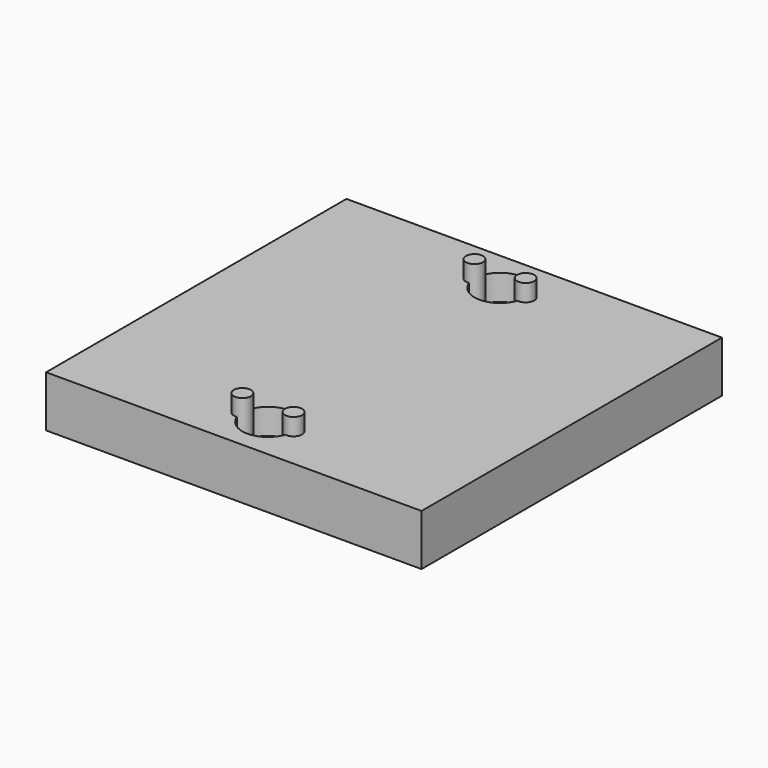
from build123d import *

# Parameters (mm, degrees)
CYLINDER_R        = 3
CYLINDER_DEPTH    = 10
CYLINDER001_R     = 3
CYLINDER001_DEPTH = 10
BOX_W             = 44
BOX_H             = 44
BOX_DEPTH         = 6
CYLINDER002_R     = 1
CYLINDER002_DEPTH = 10
CYLINDER003_R     = 1
CYLINDER003_DEPTH = 10
CYLINDER004_R     = 1
CYLINDER004_DEPTH = 10
CYLINDER005_R     = 1
CYLINDER005_DEPTH = 10


with BuildPart() as cylinder:
    # Cylinder → Cylinder (new body)
    with BuildSketch(Plane(origin=(22, 5, 3), x_dir=(1, 0, 0), z_dir=(0, 0, 1))):
        Circle(CYLINDER_R)
    extrude(amount=CYLINDER_DEPTH)


with BuildPart() as cylinder001:
    # Cylinder001 → Cylinder001 (new body)
    with BuildSketch(Plane(origin=(22, 39, 3), x_dir=(1, 0, 0), z_dir=(0, 0, 1))):
        Circle(CYLINDER001_R)
    extrude(amount=CYLINDER001_DEPTH)


with BuildPart() as cut001:
    # Box → Box (new body)
    with BuildSketch(Plane.XY):
        with Locations((22, 22)):
            Rectangle(BOX_W, BOX_H)
    extrude(amount=BOX_DEPTH)

    # Cut: cut Cylinder001
    add(cylinder001.part, mode=Mode.SUBTRACT)

    # Cut001: cut Cylinder
    add(cylinder.part, mode=Mode.SUBTRACT)


with BuildPart() as cylinder002:
    # Cylinder002 → Cylinder002 (new body)
    with BuildSketch(Plane(origin=(19, 5, -2), x_dir=(1, 0, 0), z_dir=(0, 0, 1))):
        Circle(CYLINDER002_R)
    extrude(amount=CYLINDER002_DEPTH)


with BuildPart() as cylinder003:
    # Cylinder003 → Cylinder003 (new body)
    with BuildSketch(Plane(origin=(25, 5, -2), x_dir=(1, 0, 0), z_dir=(0, 0, 1))):
        Circle(CYLINDER003_R)
    extrude(amount=CYLINDER003_DEPTH)


with BuildPart() as cylinder004:
    # Cylinder004 → Cylinder004 (new body)
    with BuildSketch(Plane(origin=(19, 39, -2), x_dir=(1, 0, 0), z_dir=(0, 0, 1))):
        Circle(CYLINDER004_R)
    extrude(amount=CYLINDER004_DEPTH)


with BuildPart() as cylinder005:
    # Cylinder005 → Cylinder005 (new body)
    with BuildSketch(Plane(origin=(25, 39, -2), x_dir=(1, 0, 0), z_dir=(0, 0, 1))):
        Circle(CYLINDER005_R)
    extrude(amount=CYLINDER005_DEPTH)


solid = Compound([cut001.part, cylinder002.part, cylinder003.part, cylinder004.part, cylinder005.part])
